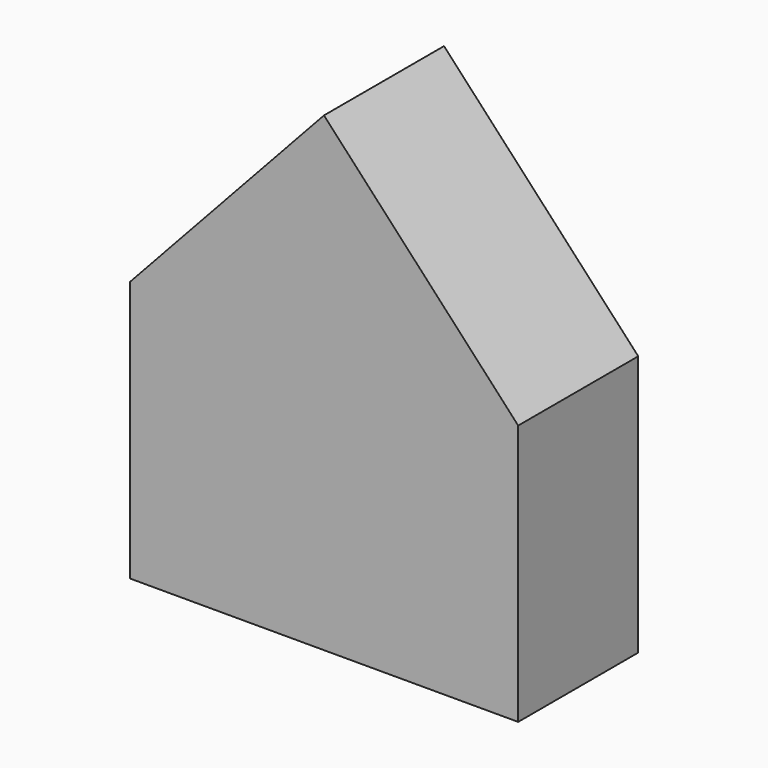
from build123d import *

# Parameters (mm, degrees)
F1_DEPTH = 10


with BuildPart() as f1:
    # F0 (on Front) → F1 (new body)
    with BuildSketch(Plane.XZ):
        Polygon((-25.886176, 0), (0, 0), (0, 17.385714), (-12.943088, 17.385714), (-25.886176, 17.385714), align=None)
        Polygon((-12.943088, 17.385714), (0, 17.385714), (-12.943088, 31.374499), align=None)
        Polygon((-12.943088, 31.374499), (-25.886176, 17.385714), (-12.943088, 17.385714), align=None)
    extrude(amount=F1_DEPTH)


solid = f1.part
